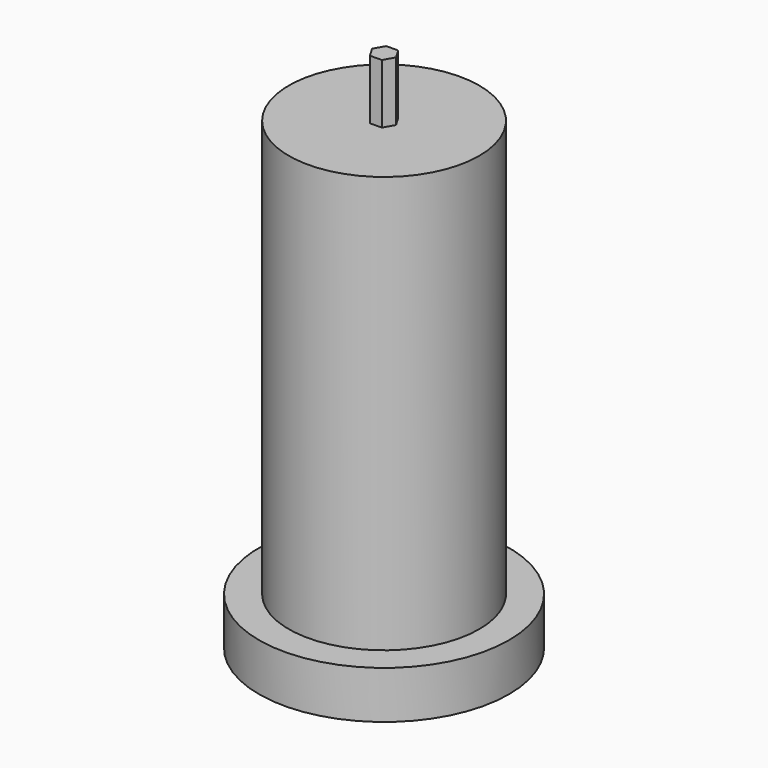
from build123d import *

# Parameters (mm, degrees)
F0_R     = 10.5
F1_DEPTH = 4
F2_R     = 8
F3_DEPTH = 39
F5_DEPTH = 5


with BuildPart() as f1:
    # F0 (on Top) → F1 (new body)
    with BuildSketch(Plane.XY):
        Circle(F0_R)
    extrude(amount=F1_DEPTH)

    # F2 (on Top) → F3 (join)
    with BuildSketch(Plane.XY):
        Circle(F2_R)
    extrude(amount=F3_DEPTH)

    # F4 (on face) → F5 (join)
    with BuildSketch(Plane.XY.offset(39)):
        Polygon((0.5079, -0.861416), (0.999958, 0.009147), (0.492058, 0.870563), (-0.5079, 0.861416), (-0.999958, -0.009147), (-0.492058, -0.870563), align=None)
    extrude(amount=F5_DEPTH)


solid = f1.part
